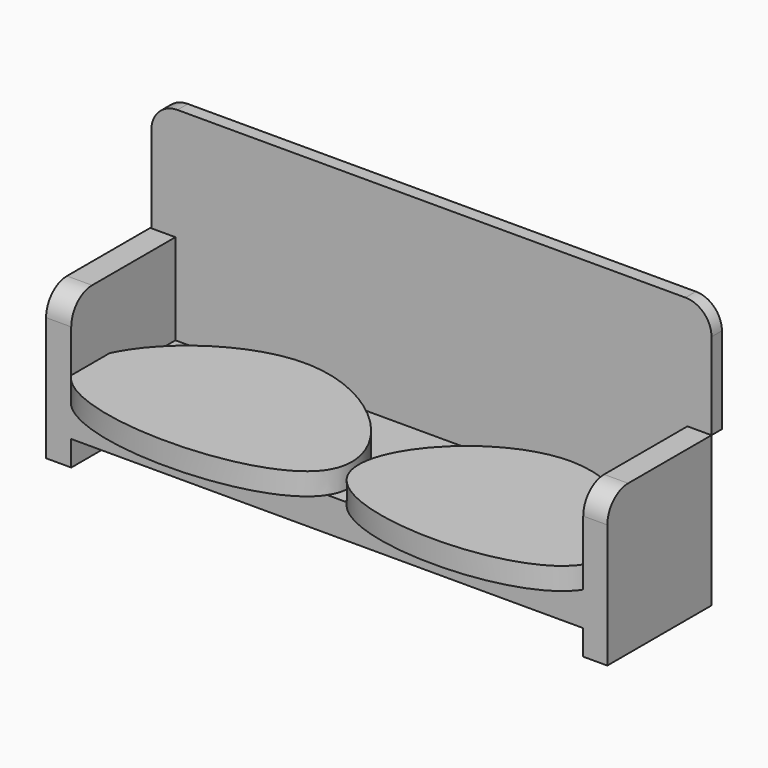
from build123d import *

# Parameters (mm, degrees)
F0_W      = 99.852476269
F0_H      = 6.614160724
F2_DEPTH  = 25.4
F5_DEPTH  = 2.54
F6_R      = 5.08
F7_R      = 5.08
F8_R      = 5.08
F9_R      = 5.08
F11_DEPTH = 4.318


with BuildPart() as f2:
    # F0 (on Front) → F2 (new body)
    with BuildSketch(Plane.XZ):
        Polygon((48.2193566859, -3.4137601033), (48.2193566859, -10.0279208273), (48.2193566859, -14.9352001026), (52.9132783413, -14.9352001026), (52.9132783413, 14.2951197922), (48.2193566859, 14.2951197922), align=None)
        with Locations((-1.7068814486, -6.7208404653)):
            Rectangle(F0_W, F0_H)
        Polygon((-51.6331195831, -14.9352001026), (-51.6331195831, -10.0279208273), (-51.6331195831, -3.4137601033), (-51.6331195831, 14.2951197922), (-56.5403997898, 14.2951197922), (-56.5403997898, -14.9352001026), align=None)
    extrude(amount=F2_DEPTH)

    # F8
    f8_edges = [f2.edges().sort_by_distance(p)[0] for p in [
        (-54.08676, -25.4, 14.29512),
    ]]
    fillet(f8_edges, radius=F8_R)

    # F9
    f9_edges = [f2.edges().sort_by_distance(p)[0] for p in [
        (50.566318, -25.4, 14.29512),
    ]]
    fillet(f9_edges, radius=F9_R)


with BuildPart() as f5:
    # F3 (on face) → F5 (new body)
    with BuildSketch(Plane(origin=(0, 0, 0), x_dir=(-1, 0, 0), z_dir=(0, 1, 0))):
        Polygon((-52.9132783413, 36.2712033093), (-52.9132783413, 14.2951197922), (-48.2193566859, 14.2951197922), (-48.2193566859, -3.4137601033), (51.6331195831, -3.4137601033), (51.6331195831, 14.2951197922), (56.3270449638, 14.2951197922), (56.3270449638, 36.2712033093), align=None)
    extrude(amount=F5_DEPTH)

    # F6
    f6_edges = [f5.edges().sort_by_distance(p)[0] for p in [
        (-56.327045, 1.27, 36.271203),
    ]]
    fillet(f6_edges, radius=F6_R)

    # F7
    f7_edges = [f5.edges().sort_by_distance(p)[0] for p in [
        (52.913278, 1.27, 36.271203),
    ]]
    fillet(f7_edges, radius=F7_R)


with BuildPart() as f11:
    # F10 (on face) → F11 (new body)
    with BuildSketch(Plane.XY.offset(-3.4137601033)):
        with BuildLine():
            add(Edge.make_bspline(
                [(-51.6331195831, -25.4), (-57.3096488035, -16.4456248773), (-26.1323176839, 16.4714129204), (21.9746192356, -36.0121761492), (-44.940188142, -35.957687007), (-51.6331195831, -25.4)],
                knots=[0, 0, 0, 0, 0.3153887328, 0.6281398221, 1, 1, 1, 1], degree=3))
        make_face()
    extrude(amount=F11_DEPTH)


with BuildPart() as f11b:
    # F10 (on face) → F11, piece 2 (new body)
    with BuildSketch(Plane.XY.offset(-3.4137601033)):
        with BuildLine():
            add(Edge.make_bspline(
                [(48.2193566859, -25.4), (53.8346501258, -16.544482979), (25.5659038487, 16.5274348203), (-20.1749106953, -35.6580634664), (41.6907986408, -35.6957677117), (48.2193566859, -25.4)],
                knots=[0, 0, 0, 0, 0.3156015553, 0.6330693854, 1, 1, 1, 1], degree=3))
        make_face()
    extrude(amount=F11_DEPTH)


solid = Compound([f2.part, f5.part, f11.part, f11b.part])
